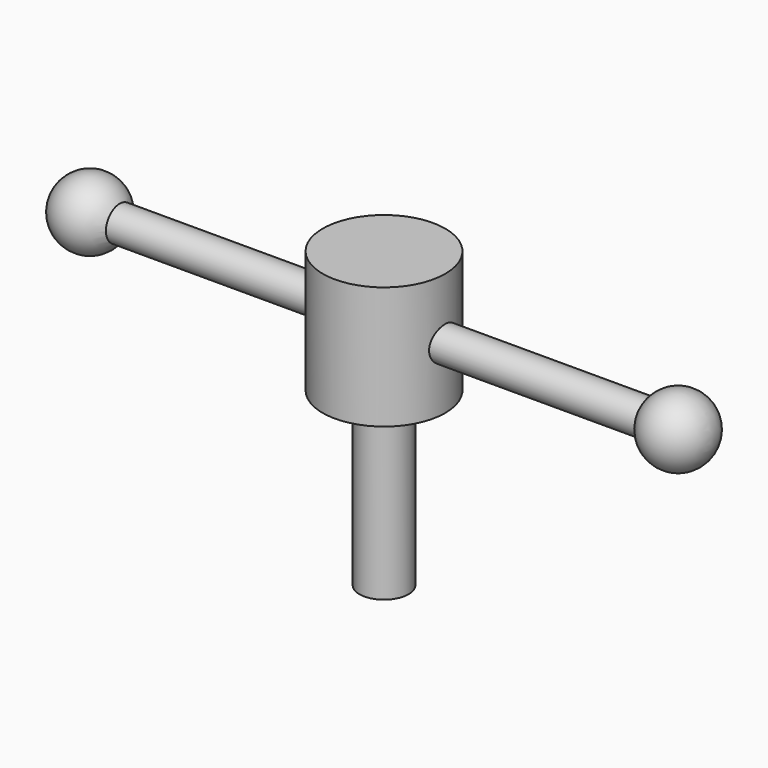
from build123d import *

# Parameters (mm, degrees)
F0_R     = 15.875
F1_DEPTH = 76.2
F2_R     = 15.875
F2_R_2   = 6.35
F3_DEPTH = 44.45
F4_R     = 4.445
F5_DEPTH = 76.2


with BuildPart() as f1:
    # F0 (on Top) → F1 (new body)
    with BuildSketch(Plane.XY):
        Circle(F0_R)
    extrude(amount=F1_DEPTH)

    # F2 (on Top) → F3 (cut)
    with BuildSketch(Plane.XY):
        Circle(F2_R)
        Circle(F2_R_2, mode=Mode.SUBTRACT)
    extrude(amount=F3_DEPTH, mode=Mode.SUBTRACT)

    # F4 (on Right) → F5 (join, symmetric)
    with BuildSketch(Plane.YZ):
        with Locations((0, 60.325)):
            Circle(F4_R)
    extrude(amount=F5_DEPTH, both=True)

    # F7 (on Front) → F8 (revolve)
    with BuildSketch(Plane.XZ):
        with BuildLine():
            Line((76.2, 69.215), (76.2, 51.435))
            ThreePointArc((76.2, 51.435), (85.09, 60.325), (76.2, 69.215))
        make_face()
    revolve(axis=Axis((76.2, 0, 60.325), (0, 0, -1)))

    # F11 (on Front) → F12 (revolve)
    with BuildSketch(Plane.XZ):
        with BuildLine():
            Line((-76.2, 51.435), (-76.2, 69.215))
            ThreePointArc((-76.2, 69.215), (-85.09, 60.325), (-76.2, 51.435))
        make_face()
    revolve(axis=Axis((-76.2, 0, 60.325), (0, 0, -1)))


solid = f1.part
